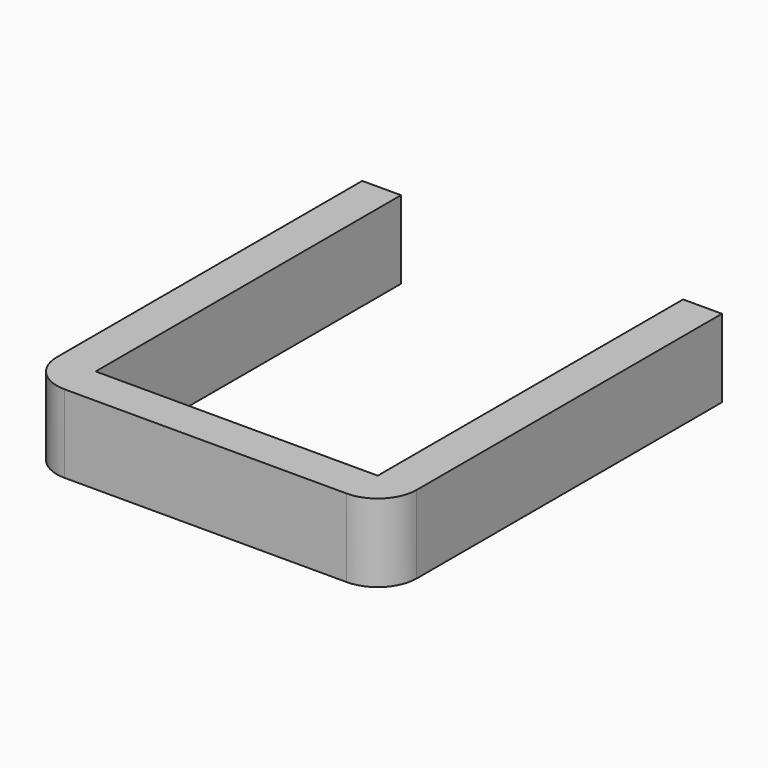
from build123d import *

# Parameters (mm, degrees)
F0_W     = 43.18
F0_H     = 5.932273
F0_W_2   = 5.932274
F0_H_2   = 58.42
F1_DEPTH = 11.938


with BuildPart() as f1:
    # F0 (on Top) → F1 (new body)
    with BuildSketch(Plane.XY):
        with Locations((-6.381456, 6.09027)):
            Rectangle(F0_W, F0_H)
        with BuildLine():
            Line((-27.971456, 3.124134), (-27.971456, 9.056407))
            Line((-27.971456, 9.056407), (-33.90373, 9.056407))
            ThreePointArc((-33.90373, 9.056407), (-32.166207, 4.861656), (-27.971456, 3.124134))
        make_face()
        with Locations((-30.937593, 38.266407)):
            Rectangle(F0_W_2, F0_H_2)
        with BuildLine():
            Line((21.140817, 9.056407), (15.208544, 9.056407))
            Line((15.208544, 9.056407), (15.208544, 3.124134))
            ThreePointArc((15.208544, 3.124134), (19.403295, 4.861656), (21.140817, 9.056407))
        make_face()
        Polygon((15.208544, 67.476407), (15.208544, 9.056407), (21.140817, 9.056407), (21.152144, 9.056407), (21.152144, 67.476407), align=None)
    extrude(amount=F1_DEPTH)


solid = f1.part
